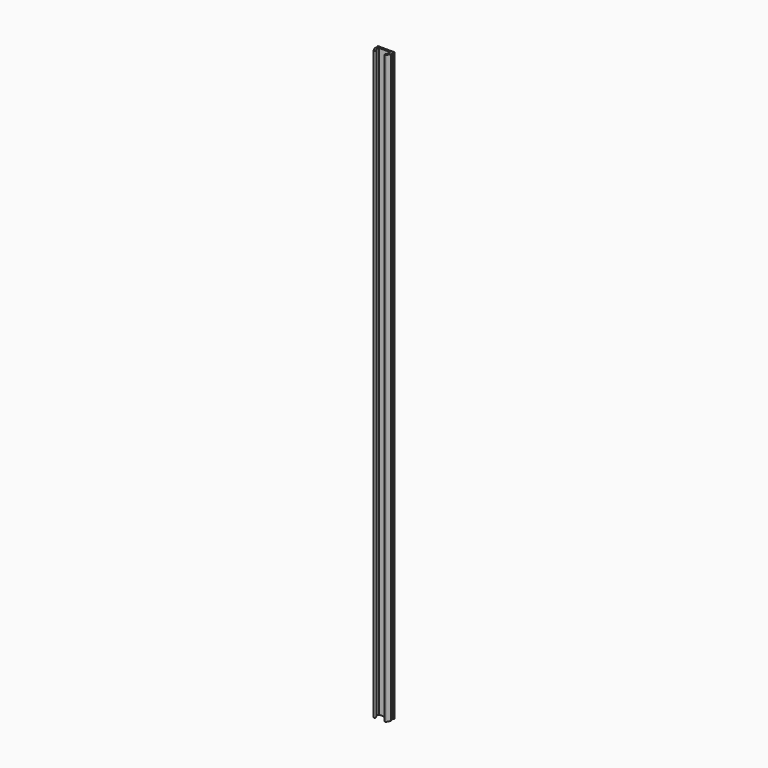
from build123d import *

# Parameters (mm, degrees)
PAD_DEPTH = 320


with BuildPart() as part:
    # Sketch → Pad (new body)
    with BuildSketch(Plane.XY):
        with BuildLine():
            Line((-4.5, 4.3), (4.5, 4.3))
            Line((4.5, 4.3), (4.5, 4))
            Line((4.5, 4), (3.9, 4))
            Line((3.9, 4), (4.5, 2))
            Line((4.5, 2), (3.441966, 0))
            ThreePointArc((2.558034, 0.467615), (2.766192, -0.208159), (3.441966, 0))
            Line((2.558034, 0.467615), (3.368691, 2))
            Line((3.368691, 2), (3, 3.228972))
            Line((-3, 3.228972), (3, 3.228972))
            Line((-3, 3.228972), (-3.368691, 2))
            Line((-3.368691, 2), (-2.558034, 0.467615))
            ThreePointArc((-3.441966, 0), (-2.766192, -0.208159), (-2.558034, 0.467615))
            Line((-3.441966, 0), (-4.5, 2))
            Line((-4.5, 2), (-3.9, 4))
            Line((-3.9, 4), (-4.5, 4))
            Line((-4.5, 4), (-4.5, 4.3))
        make_face()
    extrude(amount=PAD_DEPTH)


solid = part.part
